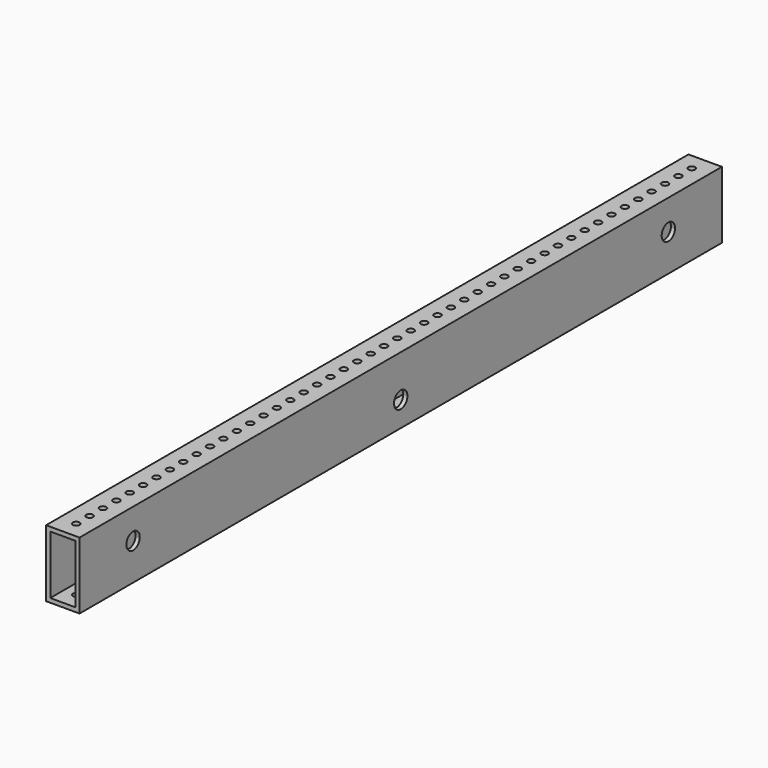
from build123d import *

# Parameters (mm, degrees)
F0_W     = 25.4
F0_H     = 50.8
F0_W_2   = 19.05
F0_H_2   = 44.45
F1_DEPTH = 304.8
F2_R     = 2.5527
F3_DEPTH = 50.801
F5_DEPTH = 25.401


with BuildPart() as f1:
    # F0 (on Front) → F1 (new body, symmetric)
    with BuildSketch(Plane.XZ):
        with Locations((12.7, 25.4)):
            Rectangle(F0_W, F0_H)
        with Locations((12.7, 25.4)):
            Rectangle(F0_W_2, F0_H_2, mode=Mode.SUBTRACT)
    extrude(amount=F1_DEPTH, both=True)

    # F2 (on face) → F3 (cut, through all)
    with BuildSketch(Plane.XY.offset(50.8)):
        with BuildLine():
            ThreePointArc((12.7, 294.6527), (10.8949685197, 290.2949685197), (15.2527, 292.1))
            ThreePointArc((15.2527, 292.1), (14.5050314803, 293.9050314803), (12.7, 294.6527))
        make_face()
        with Locations((12.7, 279.4)):
            Circle(F2_R)
        with Locations((12.7, 266.7)):
            Circle(F2_R)
        with Locations((12.7, 254)):
            Circle(F2_R)
        with Locations((12.7, 241.3)):
            Circle(F2_R)
        with Locations((12.7, 228.6)):
            Circle(F2_R)
        with Locations((12.7, 215.9)):
            Circle(F2_R)
        with Locations((12.7, 203.2)):
            Circle(F2_R)
        with Locations((12.7, 190.5)):
            Circle(F2_R)
        with Locations((12.7, 177.8)):
            Circle(F2_R)
        with Locations((12.7, 165.1)):
            Circle(F2_R)
        with Locations((12.7, 152.4)):
            Circle(F2_R)
        with Locations((12.7, 139.7)):
            Circle(F2_R)
        with Locations((12.7, 127)):
            Circle(F2_R)
        with Locations((12.7, 114.3)):
            Circle(F2_R)
        with Locations((12.7, 101.6)):
            Circle(F2_R)
        with Locations((12.7, 88.9)):
            Circle(F2_R)
        with Locations((12.7, 76.2)):
            Circle(F2_R)
        with Locations((12.7, 63.5)):
            Circle(F2_R)
        with Locations((12.7, 50.8)):
            Circle(F2_R)
        with Locations((12.7, 38.1)):
            Circle(F2_R)
        with Locations((12.7, 25.4)):
            Circle(F2_R)
        with Locations((12.7, 12.7)):
            Circle(F2_R)
        with Locations((12.7, 0)):
            Circle(F2_R)
        with Locations((12.7, -12.7)):
            Circle(F2_R)
        with Locations((12.7, -25.4)):
            Circle(F2_R)
        with Locations((12.7, -38.1)):
            Circle(F2_R)
        with Locations((12.7, -50.8)):
            Circle(F2_R)
        with Locations((12.7, -63.5)):
            Circle(F2_R)
        with Locations((12.7, -76.2)):
            Circle(F2_R)
        with Locations((12.7, -88.9)):
            Circle(F2_R)
        with Locations((12.7, -101.6)):
            Circle(F2_R)
        with Locations((12.7, -114.3)):
            Circle(F2_R)
        with Locations((12.7, -127)):
            Circle(F2_R)
        with Locations((12.7, -139.7)):
            Circle(F2_R)
        with Locations((12.7, -152.4)):
            Circle(F2_R)
        with Locations((12.7, -165.1)):
            Circle(F2_R)
        with Locations((12.7, -177.8)):
            Circle(F2_R)
        with Locations((12.7, -190.5)):
            Circle(F2_R)
        with Locations((12.7, -203.2)):
            Circle(F2_R)
        with Locations((12.7, -215.9)):
            Circle(F2_R)
        with Locations((12.7, -228.6)):
            Circle(F2_R)
        with Locations((12.7, -241.3)):
            Circle(F2_R)
        with Locations((12.7, -254)):
            Circle(F2_R)
        with Locations((12.7, -266.7)):
            Circle(F2_R)
        with Locations((12.7, -279.4)):
            Circle(F2_R)
        with Locations((12.7, -292.1)):
            Circle(F2_R)
    extrude(amount=-F3_DEPTH, mode=Mode.SUBTRACT)

    # F4 (on face) → F5 (cut, through all)
    with BuildSketch(Plane.YZ.offset(25.4)):
        with BuildLine():
            ThreePointArc((-247.65, 27.94), (-260.3490284744, 28.0510739923), (-247.6538858053, 27.7178860032))
            ThreePointArc((-247.6538858053, 27.7178860032), (-247.6509715256, 27.8289260077), (-247.65, 27.94))
        make_face()
        with BuildLine():
            Line((6.3461141947, 19.2721139968), (0, 19.05))
            Line((0, 19.05), (-6.3461141947, 19.2721139968))
            ThreePointArc((-6.3461141947, 19.2721139968), (-0.1110739923, 12.7009715256), (6.35, 19.05))
            ThreePointArc((6.35, 19.05), (6.3490284744, 19.1610739923), (6.3461141947, 19.2721139968))
        make_face()
        with BuildLine():
            Line((0, 25.4), (0, 19.05))
            Line((0, 19.05), (6.3461141947, 19.2721139968))
            ThreePointArc((6.3461141947, 19.2721139968), (4.410899915, 23.6179822613), (0, 25.4))
        make_face()
        with BuildLine():
            Line((-6.3461141947, 19.2721139968), (0, 19.05))
            Line((0, 19.05), (0, 25.4))
            ThreePointArc((0, 25.4), (-4.410899915, 23.6179822613), (-6.3461141947, 19.2721139968))
        make_face()
        with BuildLine():
            ThreePointArc((260.35, 27.94), (253.8889260077, 34.2890284744), (247.6538858053, 27.7178860032))
            ThreePointArc((247.6538858053, 27.7178860032), (254.1110739923, 21.5909715256), (260.35, 27.94))
        make_face()
    extrude(amount=-F5_DEPTH, mode=Mode.SUBTRACT)


solid = f1.part
